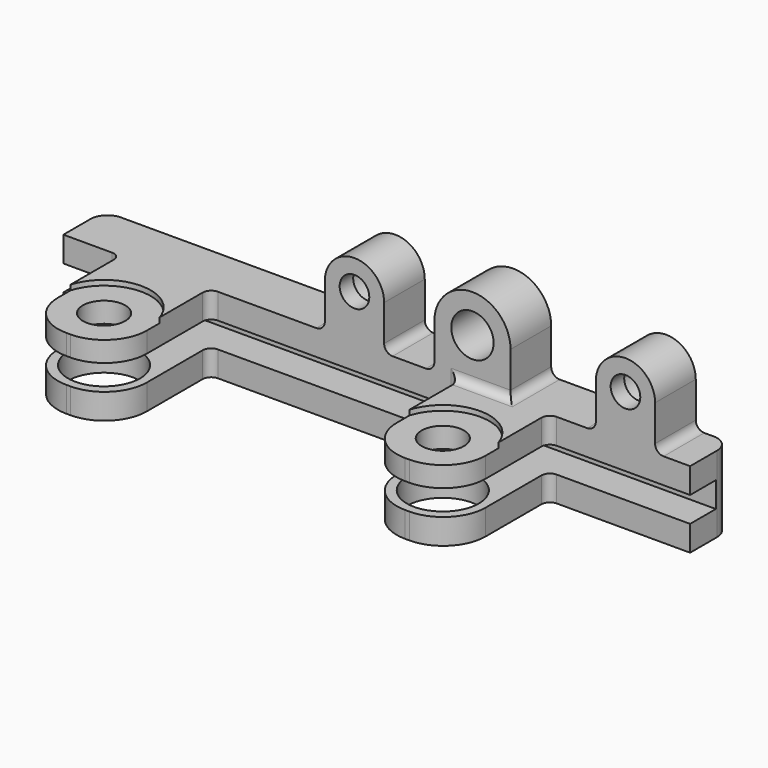
from build123d import *

# Parameters (mm, degrees)
SKETCH001_R          = 2.5
PAD_DEPTH            = 7.5
PAD_DEPTH_BACK       = 1.5
SKETCH_R             = 1.75
SKETCH_R_2           = 2.5
PAD001_DEPTH         = 6
SKETCH003_W          = 20
SKETCH003_H          = 3
POCKET_DEPTH         = 100
POCKET_DEPTH_BACK    = -100
FILLET_R             = 5
FILLET001_R          = 2
FILLET002_R          = 1
SKETCH004_R          = 4.25
POCKET001_DEPTH      = 2
POCKET001_DEPTH_BACK = -2
SKETCH005_R          = 5.5
POCKET002_DEPTH      = 5
SKETCH006_R          = 2.25
POCKET003_DEPTH      = 4


with BuildPart() as part:
    # Sketch001 → Pad (new body, two sides)
    with BuildSketch(Plane.XY) as pad_sk:
        Polygon((74, -6), (74, 0), (0, 0), (0, -6), (6.75, -6), (6.75, -20.25), (17.25, -20.25), (17.25, -6), (46.75, -6), (46.75, -20.25), (57.25, -20.25), (57.25, -6), align=None)
        with Locations((12, -15)):
            Circle(SKETCH001_R, mode=Mode.SUBTRACT)
        with Locations((52, -15)):
            Circle(SKETCH001_R, mode=Mode.SUBTRACT)
    extrude(amount=PAD_DEPTH)
    extrude(pad_sk.sketch, amount=-PAD_DEPTH_BACK)

    # Sketch → Pad001 (join)
    with BuildSketch(Plane.XZ):
        with BuildLine():
            ThreePointArc((37.87, 12.75), (34.37, 16.25), (30.87, 12.75))
            Line((30.87, 12.75), (30.87, 4.75))
            ThreePointArc((30.87, 4.75), (34.37, 1.25), (37.87, 4.75))
            Line((37.87, 12.75), (37.87, 4.75))
        make_face()
        with Locations((34.37, 12.75)):
            Circle(SKETCH_R, mode=Mode.SUBTRACT)
        with BuildLine():
            ThreePointArc((52.8, 12.75), (48.3, 17.25), (43.8, 12.75))
            Line((43.8, 12.75), (43.8, 4.75))
            ThreePointArc((43.8, 4.75), (48.3, 0.25), (52.8, 4.75))
            Line((52.8, 12.75), (52.8, 4.75))
        make_face()
        with Locations((48.3, 12.75)):
            Circle(SKETCH_R_2, mode=Mode.SUBTRACT)
        with BuildLine():
            ThreePointArc((69.87, 12.75), (66.37, 16.25), (62.87, 12.75))
            Line((62.87, 12.75), (62.87, 4.75))
            ThreePointArc((62.87, 4.75), (66.37, 1.25), (69.87, 4.75))
            Line((69.87, 12.75), (69.87, 4.75))
        make_face()
        with Locations((66.37, 12.75)):
            Circle(SKETCH_R, mode=Mode.SUBTRACT)
    extrude(amount=PAD001_DEPTH)

    # Sketch003 → Pocket (cut, two sides)
    with BuildSketch(Plane.YZ) as pocket_sk:
        with Locations((-12.2, 3)):
            Rectangle(SKETCH003_W, SKETCH003_H)
    extrude(amount=-POCKET_DEPTH, mode=Mode.SUBTRACT)
    extrude(pocket_sk.sketch, amount=-POCKET_DEPTH_BACK, mode=Mode.SUBTRACT)

    # Fillet
    fillet_edges = [part.edges().sort_by_distance(p)[0] for p in [
        (46.75, -20.25, 0),
        (46.75, -20.25, 6),
        (57.25, -20.25, 6),
        (57.25, -20.25, 0),
        (17.25, -20.25, 0),
        (17.25, -20.25, 6),
        (6.75, -20.25, 6),
        (6.75, -20.25, 0),
    ]]
    fillet(fillet_edges, radius=FILLET_R)

    # Fillet001
    fillet001_edges = [part.edges().sort_by_distance(p)[0] for p in [
        (74, 0, 3),
        (0, 0, 3),
    ]]
    fillet(fillet001_edges, radius=FILLET001_R)

    # Fillet002
    fillet002_edges = [part.edges().sort_by_distance(p)[0] for p in [
        (49.775, -6, 7.5),
        (52.8, -3, 7.5),
        (46.75, -6, 6),
        (57.25, -6, 6),
        (62.87, -3, 7.5),
        (69.87, -3, 7.5),
        (57.25, -6, 0),
        (46.75, -6, 0),
        (6.75, -6, 6),
        (6.75, -6, 0),
        (43.8, -3, 7.5),
        (30.87, -3, 7.5),
        (37.87, -3, 7.5),
        (17.25, -6, 6),
        (17.25, -6, 0),
    ]]
    fillet(fillet002_edges, radius=FILLET002_R)

    # Sketch004 → Pocket001 (cut, two sides)
    with BuildSketch(Plane.XY) as pocket001_sk:
        with Locations((12, -15)):
            Circle(SKETCH004_R)
        with Locations((52, -15)):
            Circle(SKETCH004_R)
    extrude(amount=-POCKET001_DEPTH, mode=Mode.SUBTRACT)
    extrude(pocket001_sk.sketch, amount=-POCKET001_DEPTH_BACK, mode=Mode.SUBTRACT)

    # Sketch005 → Pocket002 (cut)
    with BuildSketch(Plane.XY.offset(6.9)):
        with Locations((12, -15)):
            Circle(SKETCH005_R)
        with Locations((52, -15)):
            Circle(SKETCH005_R)
    extrude(amount=POCKET002_DEPTH, mode=Mode.SUBTRACT)

    # Sketch006 → Pocket003 (cut)
    with BuildSketch(Plane.XZ):
        with Locations((34.37, 12.75)):
            Circle(SKETCH006_R)
        with Locations((66.37, 12.75)):
            Circle(SKETCH006_R)
    extrude(amount=POCKET003_DEPTH, mode=Mode.SUBTRACT)


solid = part.part
